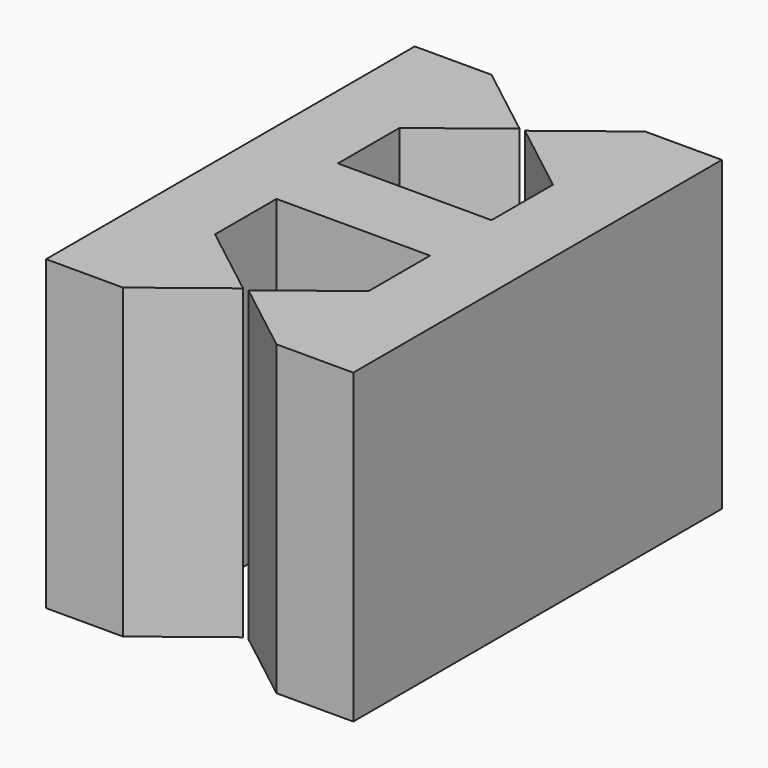
from build123d import *

# Parameters (mm, degrees)
F2_DEPTH = 8


with BuildPart() as f2:
    # F1 (on Top) → F2 (new body)
    with BuildSketch(Plane.XY):
        Polygon((-0.07, -4.5), (-2, -3), (-2, -1), (0, -1), (0, 0), (-4, 0), (-4, -6), (-2, -6), align=None)
    extrude(amount=F2_DEPTH)

    # F3: F2 across plane


with BuildPart() as f2_1:
    add(f2.part)
    add(f2.part.mirror(Plane.YZ))

    # F4: F2 across plane


with BuildPart() as f2_2:
    add(f2_1.part)
    add(f2_1.part.mirror(Plane.XZ))


solid = f2_2.part
